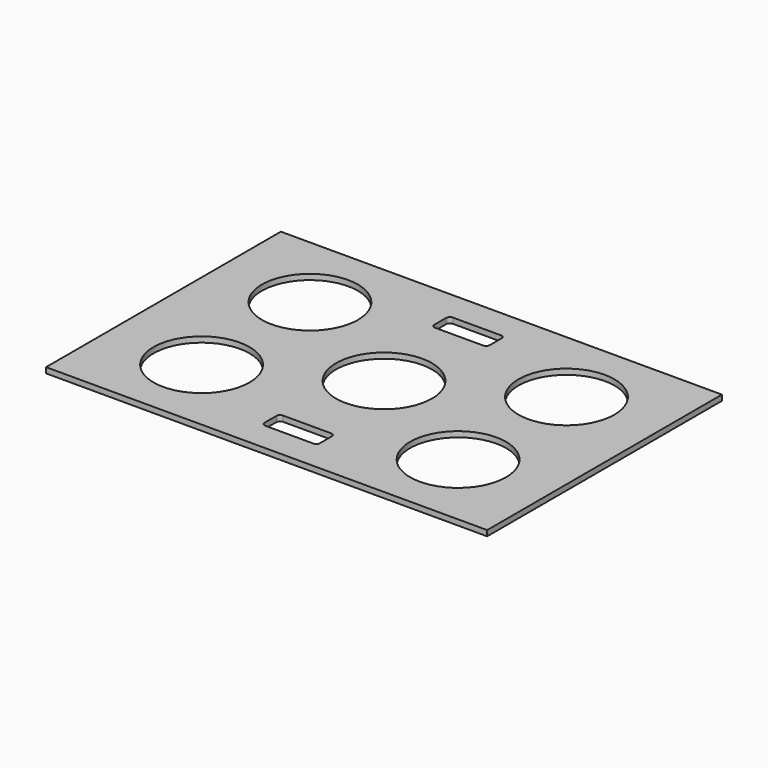
from build123d import *

# Parameters (mm, degrees)
F0_W     = 1195
F0_H     = 795
F0_R     = 130
F1_DEPTH = 15


with BuildPart() as f1:
    # F0 (on Top) → F1 (new body)
    with BuildSketch(Plane.XY):
        with Locations((444.978323, 111.086236)):
            Rectangle(F0_W, F0_H)
        with BuildLine():
            ThreePointArc((367.478323, -156.413764), (370.407255, -149.342696), (377.478323, -146.413764))
            Line((377.478323, -146.413764), (507.478323, -146.413764))
            ThreePointArc((507.478323, -146.413764), (514.549391, -149.342696), (517.478323, -156.413764))
            Line((517.478323, -156.413764), (517.478323, -196.413764))
            ThreePointArc((517.478323, -196.413764), (514.549391, -203.484832), (507.478323, -206.413764))
            Line((507.478323, -206.413764), (377.478323, -206.413764))
            ThreePointArc((377.478323, -206.413764), (370.407255, -203.484832), (367.478323, -196.413764))
            Line((367.478323, -196.413764), (367.478323, -156.413764))
        make_face(mode=Mode.SUBTRACT)
        with Locations((97.478323, -72.413764)):
            Circle(F0_R, mode=Mode.SUBTRACT)
        with Locations((444.978323, 111.086236)):
            Circle(F0_R, mode=Mode.SUBTRACT)
        with Locations((792.478323, -72.413764)):
            Circle(F0_R, mode=Mode.SUBTRACT)
        with Locations((97.478323, 294.586236)):
            Circle(F0_R, mode=Mode.SUBTRACT)
        with BuildLine():
            ThreePointArc((367.478323, 418.586236), (370.407255, 425.657304), (377.478323, 428.586236))
            Line((377.478323, 428.586236), (507.478323, 428.586236))
            ThreePointArc((507.478323, 428.586236), (514.549391, 425.657304), (517.478323, 418.586236))
            Line((517.478323, 418.586236), (517.478323, 378.586236))
            ThreePointArc((517.478323, 378.586236), (514.549391, 371.515168), (507.478323, 368.586236))
            Line((507.478323, 368.586236), (377.478323, 368.586236))
            ThreePointArc((377.478323, 368.586236), (370.407255, 371.515168), (367.478323, 378.586236))
            Line((367.478323, 378.586236), (367.478323, 418.586236))
        make_face(mode=Mode.SUBTRACT)
        with Locations((792.478323, 294.586236)):
            Circle(F0_R, mode=Mode.SUBTRACT)
    extrude(amount=F1_DEPTH)


solid = f1.part
